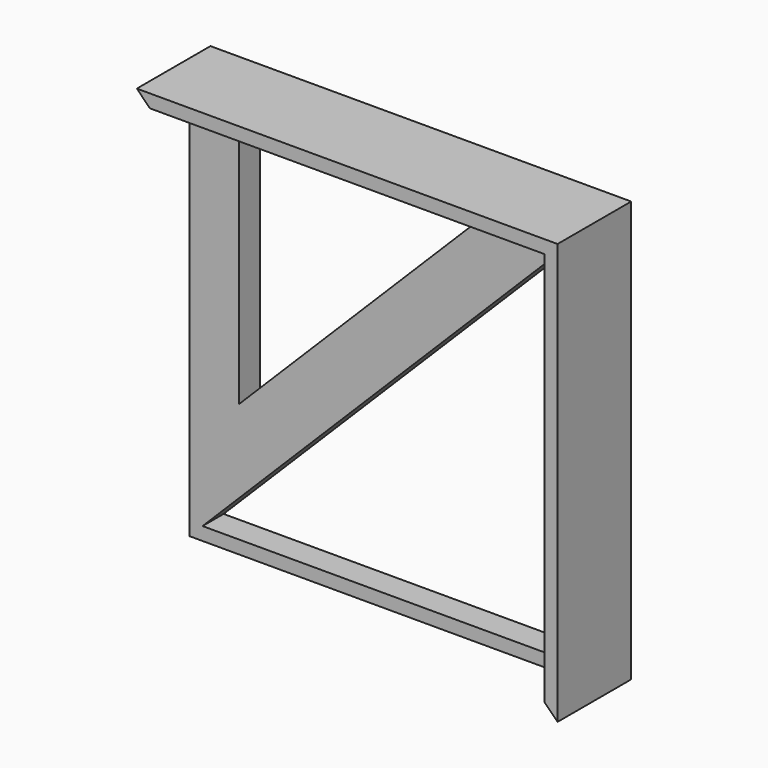
from build123d import *

# Parameters (mm, degrees)
F1_DEPTH = 4
F2_DEPTH = 14


with BuildPart() as f1:
    # F0 (on Front) → F1 (new body)
    with BuildSketch(Plane.XZ):
        Polygon((-32, 32), (-30, 30), (30, 30), (32, 32), align=None)
        Polygon((-30, -30), (-30, 30), (-32, 32), (-32, -32), align=None)
        Polygon((30, 30), (-30, 30), (-30, -30), align=None)
        Polygon((-24.4273208082, -11.8390070274), (-24.4273208082, 24.1609929726), (11.5726791918, 24.1609929726), align=None, mode=Mode.SUBTRACT)
        Polygon((32, 32), (30, 30), (30, -30), (32, -32), align=None)
        Polygon((30, -30), (-30, -30), (-32, -32), (32, -32), align=None)
    extrude(amount=F1_DEPTH)

    # F0 (on Front) → F2 (join)
    with BuildSketch(Plane.XZ):
        Polygon((32, 32), (30, 30), (30, -30), (32, -32), align=None)
        Polygon((-32, 32), (-30, 30), (30, 30), (32, 32), align=None)
    extrude(amount=F2_DEPTH)


solid = f1.part
